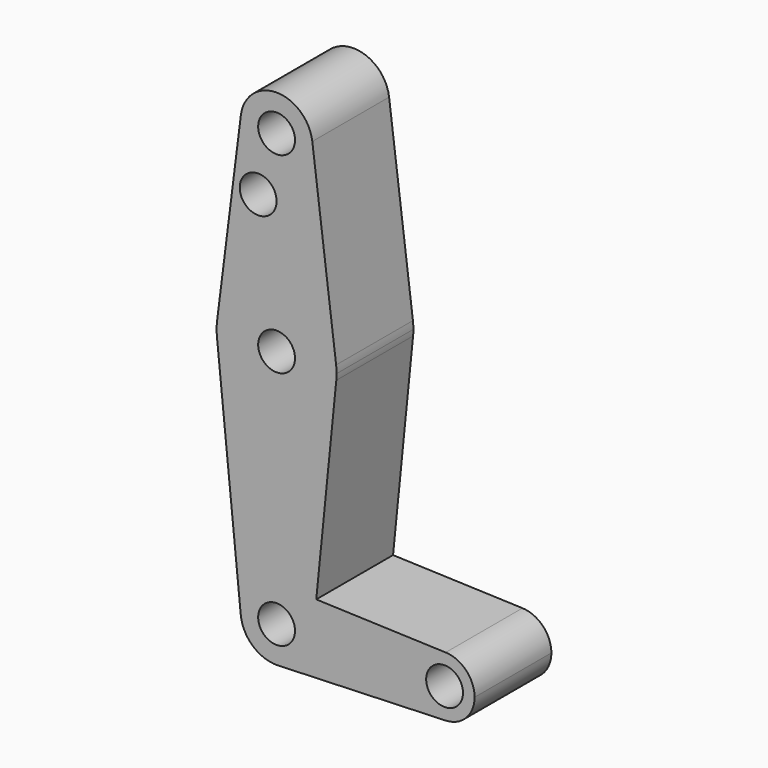
from build123d import *

# Parameters (mm, degrees)
F0_R     = 4.8745106906
F1_DEPTH = 25.4


with BuildPart() as f1:
    # F0 (on Front) → F1 (new body)
    with BuildSketch(Plane.XZ):
        with BuildLine():
            ThreePointArc((-9.4502929642, 115.490625), (-0.596483242, 104.7936951058), (9.525, 114.3))
            ThreePointArc((9.525, 114.3), (9.5063048942, 114.896483242), (9.4502929642, 115.490625))
            ThreePointArc((9.4502929642, 115.490625), (0, 123.825), (-9.4502929642, 115.490625))
        make_face()
        with Locations((0, 114.3)):
            Circle(F0_R, mode=Mode.SUBTRACT)
        with BuildLine():
            ThreePointArc((9.4502929642, 115.490625), (9.5063048942, 114.896483242), (9.525, 114.3))
            ThreePointArc((9.525, 114.3), (-0.596483242, 104.7936951058), (-9.4502929642, 115.490625))
            Line((-9.4502929642, 115.490625), (-15.7504882737, 65.484375))
            ThreePointArc((-15.7504882737, 65.484375), (0, 79.375), (15.7504882737, 65.484375))
            Line((15.7504882737, 65.484375), (9.4502929642, 115.490625))
        make_face()
        with Locations((-4.8745106906, 98.495259881)):
            Circle(F0_R, mode=Mode.SUBTRACT)
        with BuildLine():
            ThreePointArc((15.875, 63.5), (15.8438414904, 64.4941387366), (15.7504882737, 65.484375))
            ThreePointArc((15.7504882737, 65.484375), (0, 79.375), (-15.7504882737, 65.484375))
            ThreePointArc((-15.7504882737, 65.484375), (-15.8737438155, 63.6997054867), (-15.7954255641, 61.9125))
            ThreePointArc((-15.7954255641, 61.9125), (0, 47.625), (15.7954255641, 61.9125))
            ThreePointArc((15.7954255641, 61.9125), (15.8550939106, 62.7052534459), (15.875, 63.5))
        make_face()
        with Locations((0, 63.5)):
            Circle(F0_R, mode=Mode.SUBTRACT)
        with BuildLine():
            ThreePointArc((15.7954255641, 61.9125), (0, 47.625), (-15.7954255641, 61.9125))
            Line((-15.7954255641, 61.9125), (-9.4772553384, -0.9525))
            ThreePointArc((-9.4772553384, -0.9525), (-6.948684782, 6.5147068085), (0.3401785714, 9.5189234444))
            Line((0.3401785714, 9.5189234444), (10.4932062399, 9.1560838367))
            Line((10.4932062399, 9.1560838367), (15.7954255641, 61.9125))
        make_face()
        with BuildLine():
            ThreePointArc((0.3401785714, 9.5189234444), (-6.948684782, 6.5147068085), (-9.4772553384, -0.9525))
            ThreePointArc((-9.4772553384, -0.9525), (-6.2623833816, -7.1769199091), (0.3401785714, -9.5189234444))
            ThreePointArc((0.3401785714, -9.5189234444), (6.5147068085, -6.948684782), (9.4772553384, -0.9525))
            ThreePointArc((9.4772553384, -0.9525), (9.5130563464, -0.4768479324), (9.525, 0))
            ThreePointArc((9.525, 0), (6.8544082857, 6.6138273378), (0.3401785714, 9.5189234444))
        make_face()
        Circle(F0_R, mode=Mode.SUBTRACT)
        with BuildLine():
            Line((44.7334821429, 7.9324362036), (10.4932062399, 9.1560838367))
            Line((10.4932062399, 9.1560838367), (9.4772553384, -0.9525))
            ThreePointArc((9.4772553384, -0.9525), (6.5147068085, -6.948684782), (0.3401785714, -9.5189234444))
            Line((0.3401785714, -9.5189234444), (44.7334821429, -7.9324362036))
            ThreePointArc((44.7334821429, -7.9324362036), (36.5125, 0), (44.7334821429, 7.9324362036))
        make_face()
        with BuildLine():
            Line((9.4772553384, -0.9525), (10.4932062399, 9.1560838367))
            Line((10.4932062399, 9.1560838367), (0.3401785714, 9.5189234444))
            ThreePointArc((0.3401785714, 9.5189234444), (6.8544082857, 6.6138273378), (9.525, 0))
            ThreePointArc((9.525, 0), (9.5130563464, -0.4768479324), (9.4772553384, -0.9525))
        make_face()
        with BuildLine():
            ThreePointArc((52.3875, 0), (50.1620069047, 5.5115227815), (44.7334821429, 7.9324362036))
            ThreePointArc((44.7334821429, 7.9324362036), (36.5125, 0), (44.7334821429, -7.9324362036))
            ThreePointArc((44.7334821429, -7.9324362036), (50.1620069047, -5.5115227815), (52.3875, 0))
        make_face()
        with Locations((44.45, 0)):
            Circle(F0_R, mode=Mode.SUBTRACT)
    extrude(amount=F1_DEPTH)


solid = f1.part
